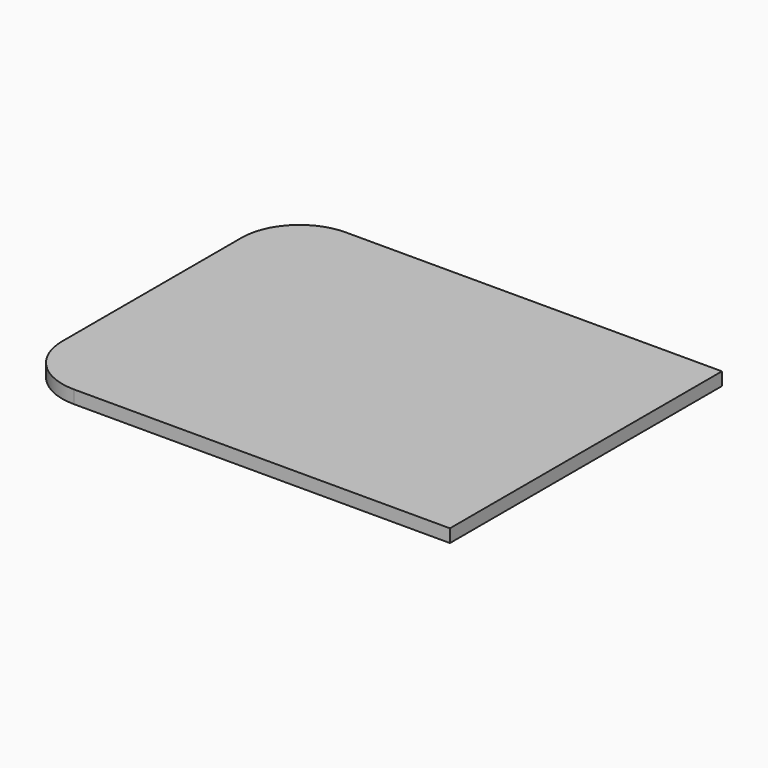
from build123d import *

# Parameters (mm, degrees)
F1_DEPTH = 18


with BuildPart() as f1:
    # F0 (on Top) → F1 (new body)
    with BuildSketch(Plane.XY):
        with BuildLine():
            Line((56.449946, 428.478969), (-463.550054, 428.478969))
            ThreePointArc((-463.550054, 428.478969), (-520.118596, 405.047511), (-543.550054, 348.478969))
            Line((-543.550054, 348.478969), (-543.550054, 38.478969))
            ThreePointArc((-543.550054, 38.478969), (-520.118596, -18.089574), (-463.550054, -41.521031))
            Line((-463.550054, -41.521031), (56.449946, -41.521031))
            Line((56.449946, -41.521031), (56.449946, 428.478969))
        make_face()
    extrude(amount=F1_DEPTH)


solid = f1.part
